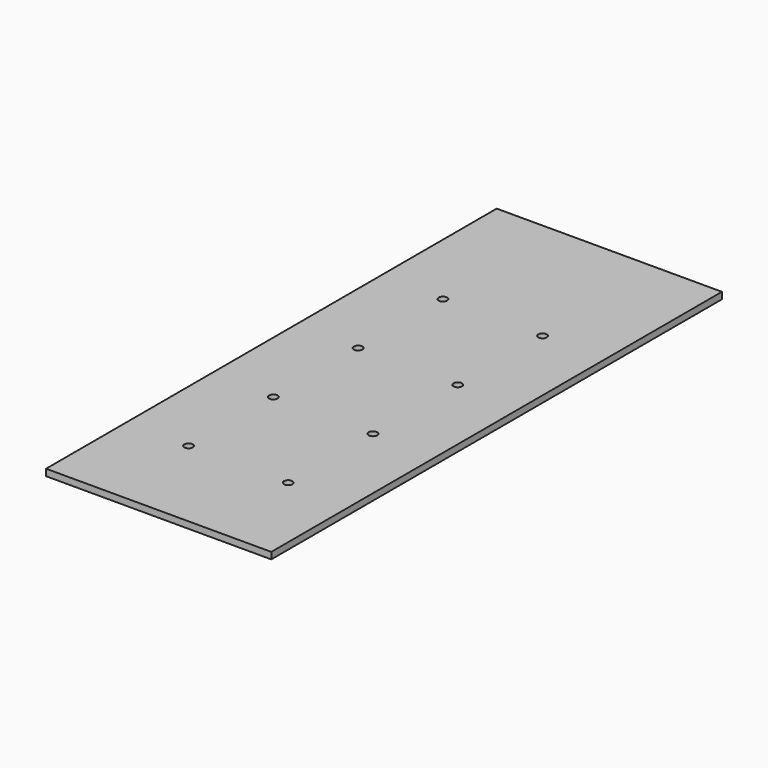
from build123d import *

# Parameters (mm, degrees)
F0_W     = 107.95
F0_H     = 270.002
F0_R     = 2.032
F1_DEPTH = 3.175


with BuildPart() as f1:
    # F0 (on Top) → F1 (new body)
    with BuildSketch(Plane.XY):
        Rectangle(F0_W, F0_H)
        with Locations((-23.876, -87.249)):
            Circle(F0_R, mode=Mode.SUBTRACT)
        with Locations((-23.876, -36.449)):
            Circle(F0_R, mode=Mode.SUBTRACT)
        with Locations((23.876, -87.249)):
            Circle(F0_R, mode=Mode.SUBTRACT)
        with Locations((23.876, -36.449)):
            Circle(F0_R, mode=Mode.SUBTRACT)
        with Locations((-23.876, 14.351)):
            Circle(F0_R, mode=Mode.SUBTRACT)
        with Locations((-23.876, 65.151)):
            Circle(F0_R, mode=Mode.SUBTRACT)
        with Locations((23.876, 14.351)):
            Circle(F0_R, mode=Mode.SUBTRACT)
        with Locations((23.876, 65.151)):
            Circle(F0_R, mode=Mode.SUBTRACT)
    extrude(amount=F1_DEPTH)


solid = f1.part
